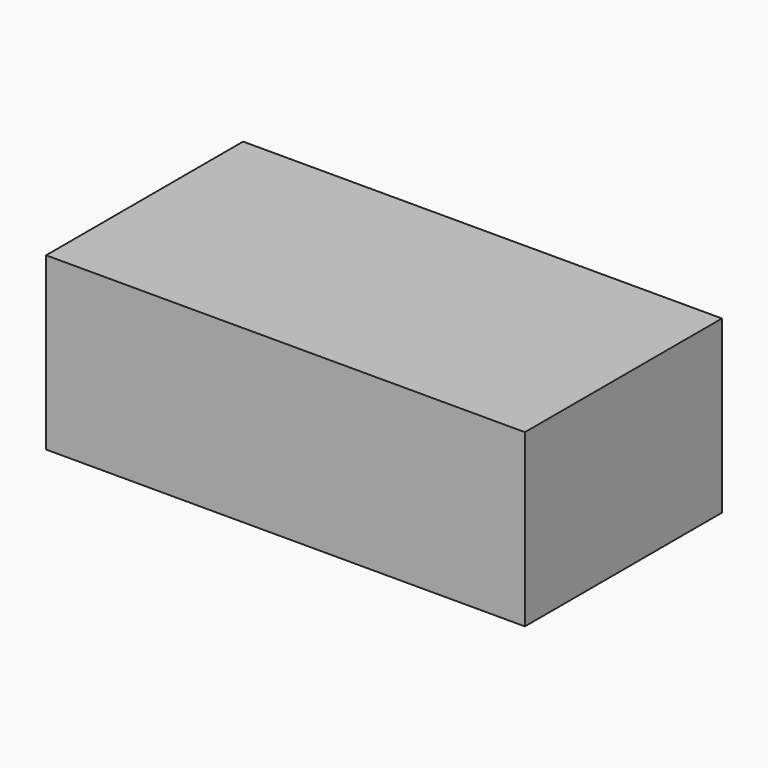
from build123d import *

# Parameters (mm, degrees)
SKETCH_W  = 350
SKETCH_H  = 180
PAD_DEPTH = 125


with BuildPart() as part:
    # Sketch → Pad (new body)
    with BuildSketch(Plane.XY):
        Rectangle(SKETCH_W, SKETCH_H)
    extrude(amount=PAD_DEPTH)


solid = part.part
